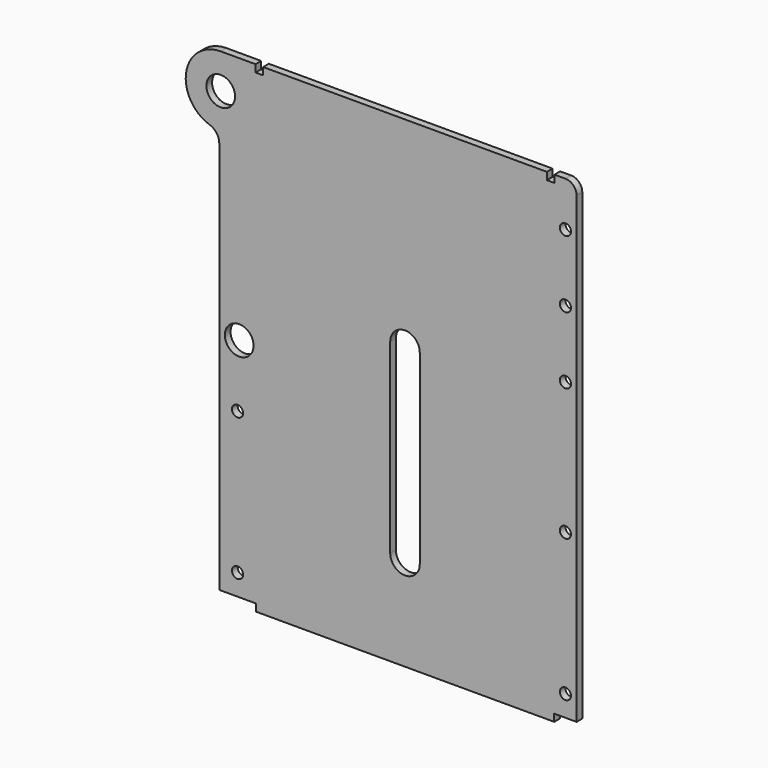
from build123d import *

# Parameters (mm, degrees)
SKETCH002_W     = 266.7
SKETCH002_H     = 430.55
PAD002_DEPTH    = 6.35
SKETCH020_R     = 12.8
SKETCH020_R_2   = 5
PAD014_DEPTH    = 6.35
SKETCH039_W     = 6.75
SKETCH039_H     = 6.55
POCKET_DEPTH    = 6.35
SKETCH056_R     = 5
POCKET002_DEPTH = 100


with BuildPart() as part:
    # Sketch002 (on Face1 of ShapeBinder002) → Pad002 (new body)
    with BuildSketch(Plane.XZ.offset(62.5)):
        with Locations((0, -52.075)):
            Rectangle(SKETCH002_W, SKETCH002_H)
        with BuildLine():
            ThreePointArc((-13.2, -182.35), (0, -195.55), (13.2, -182.35))
            Line((13.2, -182.35), (13.2, -15.975))
            ThreePointArc((13.2, -15.975), (0, -2.775), (-13.2, -15.975))
            Line((-13.2, -15.975), (-13.2, -182.35))
        make_face(mode=Mode.SUBTRACT)
    extrude(amount=PAD002_DEPTH)

    # Sketch020 (on Face10 of Pad002) → Pad014 (join)
    with BuildSketch(Plane.XZ.offset(68.85)):
        with BuildLine():
            Line((-133.35, 163.2), (-149.65, 163.2))
            Line((-164.65, 163.2), (-149.65, 163.2))
            ThreePointArc((-164.65, 163.2), (-195.548892, 136.894842), (-174.511666, 102.19415))
            ThreePointArc((-165.95, 90.330781), (-168.313946, 97.645862), (-174.511666, 102.19415))
            Line((-165.95, -260.9), (-165.95, 90.330781))
            Line((-165.95, -260.9), (-133.35, -260.9))
            Line((-133.35, 163.2), (-133.35, -260.9))
        make_face()
        with Locations((-148.15, -58.775)):
            Circle(SKETCH020_R, mode=Mode.SUBTRACT)
        with Locations((-149.65, -241.95)):
            Circle(SKETCH020_R_2, mode=Mode.SUBTRACT)
        with Locations((-149.65, -114.95)):
            Circle(SKETCH020_R_2, mode=Mode.SUBTRACT)
        with Locations((-164.65, 131.9)):
            Circle(SKETCH020_R, mode=Mode.SUBTRACT)
        with BuildLine():
            Line((133.35, 163.2), (143.35, 163.2))
            ThreePointArc((153.35, 153.2), (150.421068, 160.271068), (143.35, 163.2))
            Line((153.35, 153.2), (153.35, -260.9))
            Line((133.35, -260.9), (153.35, -260.9))
            Line((133.35, -260.9), (133.35, 163.2))
        make_face()
        with Locations((143.35, -241.95)):
            Circle(SKETCH020_R_2, mode=Mode.SUBTRACT)
        with Locations((143.35, -114.95)):
            Circle(SKETCH020_R_2, mode=Mode.SUBTRACT)
    extrude(amount=-PAD014_DEPTH)

    # Sketch039 (on Face22 of Pad014) → Pocket (cut)
    with BuildSketch(Plane.XZ.offset(68.85)):
        with Locations((-130.175, 159.925)):
            Rectangle(SKETCH039_W, SKETCH039_H)
        with Locations((130.175, 159.925)):
            Rectangle(SKETCH039_W, SKETCH039_H)
    extrude(amount=-POCKET_DEPTH, mode=Mode.SUBTRACT)

    # Sketch056 (on Face4 of Pocket) → Pocket002 (cut)
    with BuildSketch(Plane.XZ.offset(68.85)):
        with Locations((143.35, 123.2)):
            Circle(SKETCH056_R)
        with Locations((143.35, 63.2)):
            Circle(SKETCH056_R)
        with Locations((143.35, 3.2)):
            Circle(SKETCH056_R)
    extrude(amount=-POCKET002_DEPTH, mode=Mode.SUBTRACT)


solid = part.part
